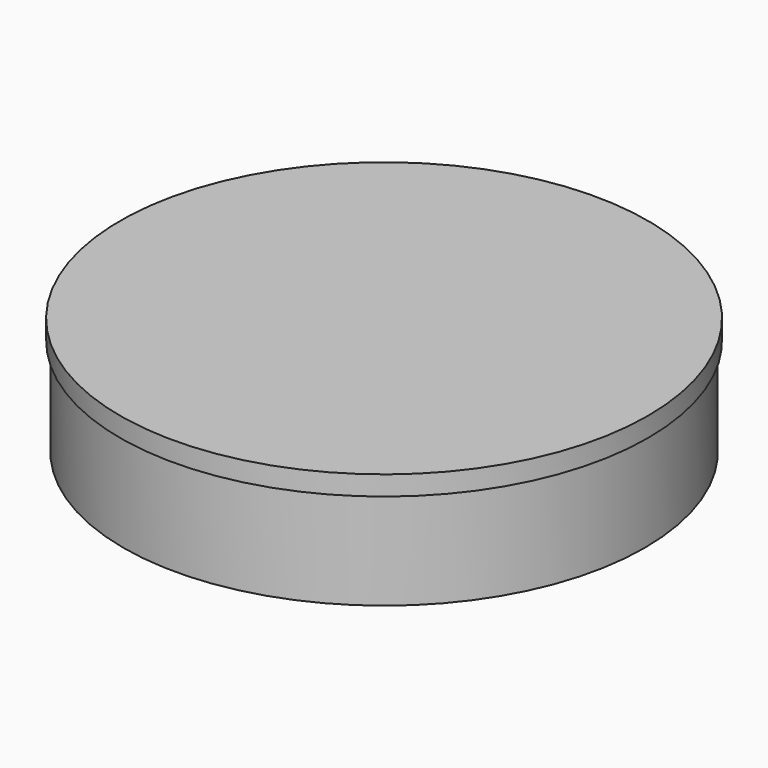
from build123d import *

# Parameters (mm, degrees)
SKETCH_R     = 8
SKETCH_R_2   = 7.45
PAD_DEPTH    = 3
SKETCH001_R  = 8.1
PAD001_DEPTH = 0.6


with BuildPart() as part:
    # Sketch (on XY_Plane of Origin) → Pad (new body)
    with BuildSketch(Plane.XY):
        Circle(SKETCH_R)
        Circle(SKETCH_R_2, mode=Mode.SUBTRACT)
    extrude(amount=PAD_DEPTH)

    # Sketch001 (on Face4 of Pad) → Pad001 (join)
    with BuildSketch(Plane.XY.offset(3)):
        Circle(SKETCH001_R)
    extrude(amount=PAD001_DEPTH)


solid = part.part
